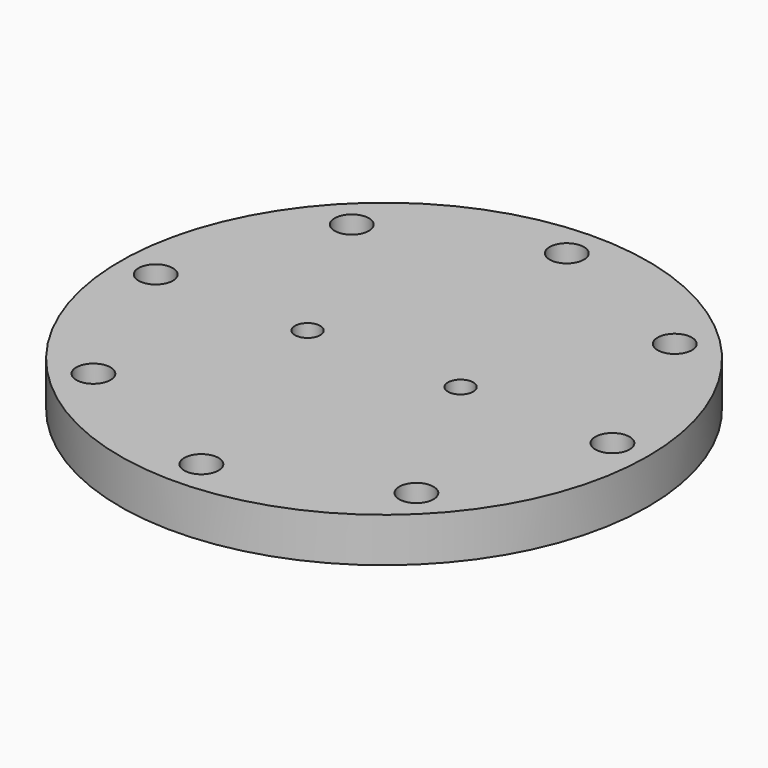
from build123d import *

# Parameters (mm, degrees)
F0_R     = 172.5
F1_DEPTH = 29
F2_R     = 134.95
F3_DEPTH = 1.6
F4_R     = 11.2
F5_DEPTH = 30.601
F6_R     = 8.25
F7_DEPTH = 30.601


with BuildPart() as f1:
    # F0 (on Top) → F1 (new body)
    with BuildSketch(Plane.XY):
        Circle(F0_R)
    extrude(amount=F1_DEPTH)

    # F2 (on face) → F3 (join)
    with BuildSketch(Plane(origin=(0, 0, 0), x_dir=(1, 0, 0), z_dir=(0, 0, -1))):
        Circle(F2_R)
    extrude(amount=F3_DEPTH)

    # F4 (on face) → F5 (cut, through all)
    with BuildSketch(Plane.XY.offset(29)):
        with Locations((0, 149.25)):
            Circle(F4_R)
        with Locations((-105.535687, 105.535687)):
            Circle(F4_R)
        with Locations((-149.25, 0)):
            Circle(F4_R)
        with Locations((-105.535687, -105.535687)):
            Circle(F4_R)
        with Locations((0, -149.25)):
            Circle(F4_R)
        with Locations((105.535687, -105.535687)):
            Circle(F4_R)
        with Locations((149.25, 0)):
            Circle(F4_R)
        with Locations((105.535687, 105.535687)):
            Circle(F4_R)
    extrude(amount=-F5_DEPTH, mode=Mode.SUBTRACT)

    # F6 (on face) → F7 (cut, through all)
    with BuildSketch(Plane.XY.offset(29)):
        with Locations((-50, 0)):
            Circle(F6_R)
        with Locations((50, 0)):
            Circle(F6_R)
    extrude(amount=-F7_DEPTH, mode=Mode.SUBTRACT)


solid = f1.part
